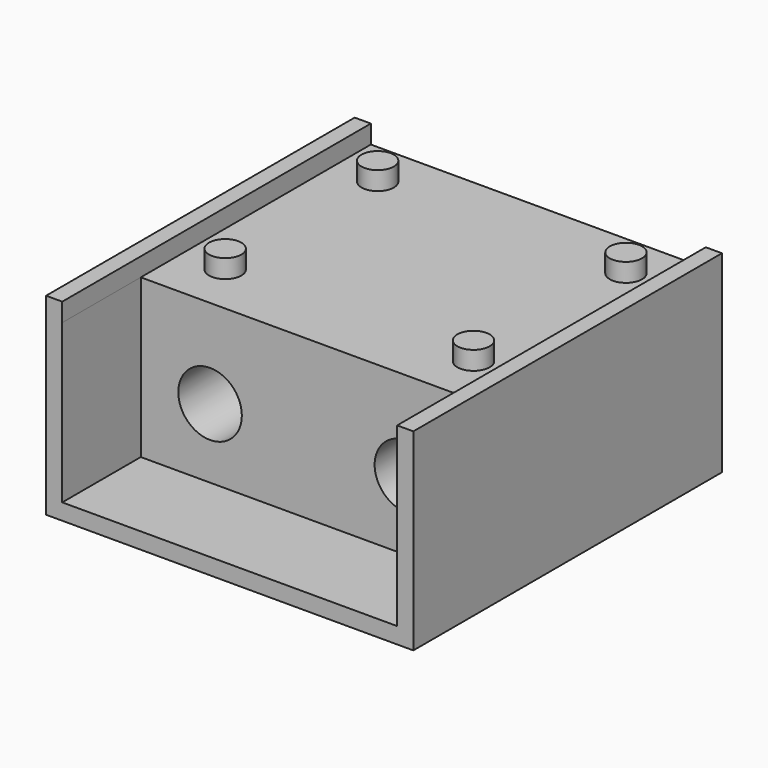
from build123d import *

# Parameters (mm, degrees)
SKETCH_W        = 31.8
SKETCH_H        = 33.4
PAD_DEPTH       = 15.1
SKETCH001_R     = 1.4
SKETCH001_W     = 1.4
SKETCH001_H     = 33.4
PAD001_DEPTH    = 1.6
SKETCH002_W     = 29
SKETCH002_H     = 13.7
POCKET_DEPTH    = 8.5
SKETCH011_R     = 2.75
POCKET006_DEPTH = 8
SKETCH012_R     = 1.8
POCKET007_DEPTH = 20


with BuildPart() as part:
    # Sketch (on Face1449 of Binder) → Pad (new body)
    with BuildSketch(Plane(origin=(0, 0, 0), x_dir=(1, 0, 0), z_dir=(0, 0, -1))):
        with Locations((13.749781, -17.25)):
            Rectangle(SKETCH_W, SKETCH_H)
    extrude(amount=PAD_DEPTH)

    # Sketch001 (on Face5 of Pad) → Pad001 (join)
    with BuildSketch(Plane.XY):
        with Locations((3, 30)):
            Circle(SKETCH001_R)
        with Locations((24.5, 30)):
            Circle(SKETCH001_R)
        with Locations((3, 13.5)):
            Circle(SKETCH001_R)
        with Locations((24.5, 13.5)):
            Circle(SKETCH001_R)
        with Locations((-1.450219, 17.25)):
            Rectangle(SKETCH001_W, SKETCH001_H)
        with Locations((28.949781, 17.25)):
            Rectangle(SKETCH001_W, SKETCH001_H)
    extrude(amount=PAD001_DEPTH)

    # Sketch002 (on Face16 of Pad001) → Pocket (cut)
    with BuildSketch(Plane.XZ.offset(-0.55)):
        with Locations((13.74978, -6.85)):
            Rectangle(SKETCH002_W, SKETCH002_H)
    extrude(amount=-POCKET_DEPTH, mode=Mode.SUBTRACT)

    # Sketch011 (on Face10 of Pocket) → Pocket006 (cut)
    with BuildSketch(Plane.XZ.offset(-9.05)):
        with Locations((5.24978, -7.7)):
            Circle(SKETCH011_R)
        with Locations((22.24978, -7.7)):
            Circle(SKETCH011_R)
    extrude(amount=-POCKET006_DEPTH, mode=Mode.SUBTRACT)

    # Sketch012 (on Face19 of Pocket006) → Pocket007 (cut)
    with BuildSketch(Plane.XZ.offset(-17.05)):
        with Locations((5.24978, -7.7)):
            Circle(SKETCH012_R)
        with Locations((22.24978, -7.7)):
            Circle(SKETCH012_R)
    extrude(amount=-POCKET007_DEPTH, mode=Mode.SUBTRACT)


solid = part.part
